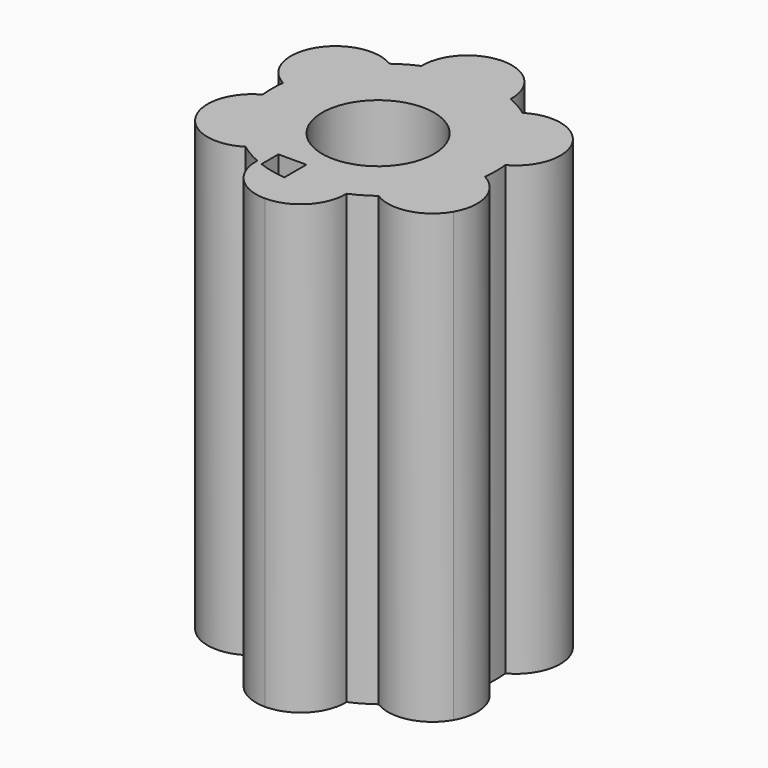
from build123d import *

# Parameters (mm, degrees)
F0_R     = 6.35
F1_DEPTH = 50.8


with BuildPart() as f1:
    # F0 (on Top) → F1 (new body)
    with BuildSketch(Plane.XY):
        with BuildLine():
            ThreePointArc((5.065933, 11.645871), (3.643338, 15.338636), (0, 16.883425))
            ThreePointArc((0, 16.883425), (-3.643338, 15.338636), (-5.065933, 11.645871))
            ThreePointArc((-5.065933, 11.645871), (-6.35, 10.998523), (-7.552654, 10.210163))
            ThreePointArc((-7.552654, 10.210163), (-10.998523, 6.35), (-12.618587, 1.435709))
            ThreePointArc((-12.618587, 1.435709), (-12.7, 0), (-12.618587, -1.435709))
            ThreePointArc((-12.618587, -1.435709), (-15.105317, -4.514095), (-14.621475, -8.441712))
            ThreePointArc((-14.621475, -8.441712), (-11.461979, -10.824541), (-7.552654, -10.210163))
            ThreePointArc((-7.552654, -10.210163), (-6.35, -10.998523), (-5.065933, -11.645871))
            ThreePointArc((-5.065933, -11.645871), (-4.719503, -11.790517), (-4.368949, -11.92486))
            Line((-4.368949, -11.92486), (-4.368949, -9.525))
            Line((-4.368949, -9.525), (-1.193949, -9.525))
            Line((-1.193949, -9.525), (-1.193949, -12.643753))
            ThreePointArc((-1.193949, -12.643753), (1.999251, -12.54165), (5.065933, -11.645871))
            ThreePointArc((5.065933, -11.645871), (6.35, -10.998523), (7.552654, -10.210163))
            ThreePointArc((7.552654, -10.210163), (11.461979, -10.824541), (14.621475, -8.441712))
            ThreePointArc((14.621475, -8.441712), (15.105317, -4.514095), (12.618587, -1.435709))
            ThreePointArc((12.618587, -1.435709), (12.7, 0), (12.618587, 1.435709))
            ThreePointArc((12.618587, 1.435709), (10.998523, 6.35), (7.552654, 10.210163))
            ThreePointArc((7.552654, 10.210163), (6.35, 10.998523), (5.065933, 11.645871))
        make_face()
        with Locations((0, -0.838046)):
            Circle(F0_R, mode=Mode.SUBTRACT)
        with BuildLine():
            ThreePointArc((-12.618587, 1.435709), (-10.998523, 6.35), (-7.552654, 10.210163))
            ThreePointArc((-7.552654, 10.210163), (-11.461979, 10.824541), (-14.621475, 8.441712))
            ThreePointArc((-14.621475, 8.441712), (-15.105317, 4.514095), (-12.618587, 1.435709))
        make_face()
        with BuildLine():
            ThreePointArc((14.621475, 8.441712), (11.461979, 10.824541), (7.552654, 10.210163))
            ThreePointArc((7.552654, 10.210163), (10.998523, 6.35), (12.618587, 1.435709))
            ThreePointArc((12.618587, 1.435709), (15.105317, 4.514095), (14.621475, 8.441712))
        make_face()
        with BuildLine():
            ThreePointArc((-4.368949, -11.92486), (-4.719503, -11.790517), (-5.065933, -11.645871))
            ThreePointArc((-5.065933, -11.645871), (-3.643338, -15.338636), (0, -16.883425))
            ThreePointArc((0, -16.883425), (3.643338, -15.338636), (5.065933, -11.645871))
            ThreePointArc((5.065933, -11.645871), (1.999251, -12.54165), (-1.193949, -12.643753))
            ThreePointArc((-1.193949, -12.643753), (-2.804579, -12.386458), (-4.368949, -11.92486))
        make_face()
    extrude(amount=F1_DEPTH)


solid = f1.part
